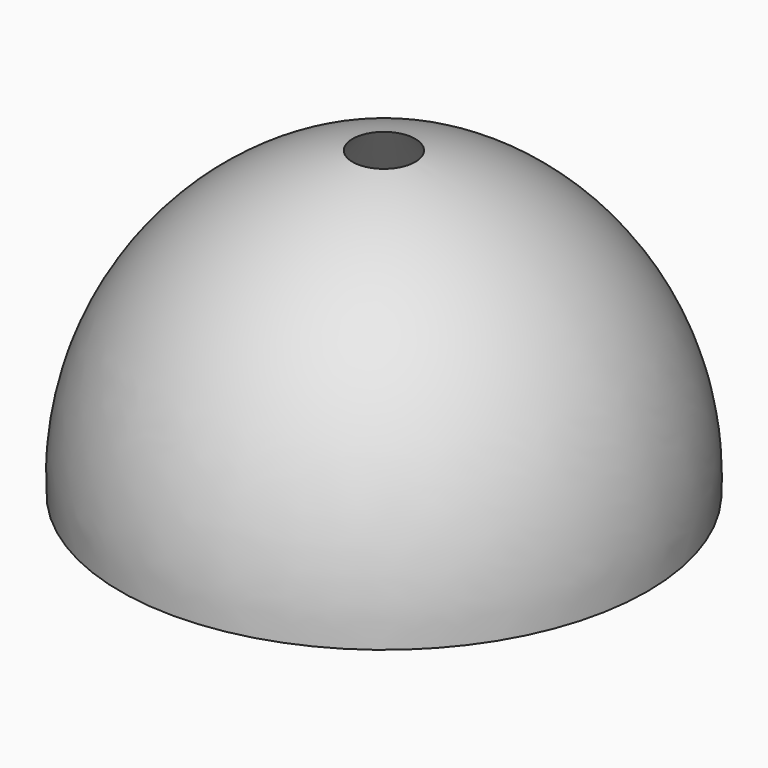
from build123d import *


with BuildPart() as f1:
    # F0 (on Front) → F1 (revolve)
    with BuildSketch(Plane.XZ):
        with BuildLine():
            ThreePointArc((63.337942, 11.075571), (63.631599, 5.540897), (63.5, 0))
            Line((63.5, 0), (76.2, 0))
            ThreePointArc((76.2, 0), (58.805768, 56.158465), (9.062436, 87.494281))
            Line((9.062436, 87.494281), (29.245666, 66.010336))
            ThreePointArc((29.245666, 66.010336), (50.730226, 45.692913), (62.272586, 18.468698))
            Line((62.272586, 18.468698), (48.995863, 18.468698))
            Line((48.995863, 18.468698), (48.995863, 11.075571))
            Line((48.995863, 11.075571), (63.337942, 11.075571))
        make_face()
    revolve(axis=Axis((0, 0, 82.55), (0, 0, -1)))


solid = f1.part
